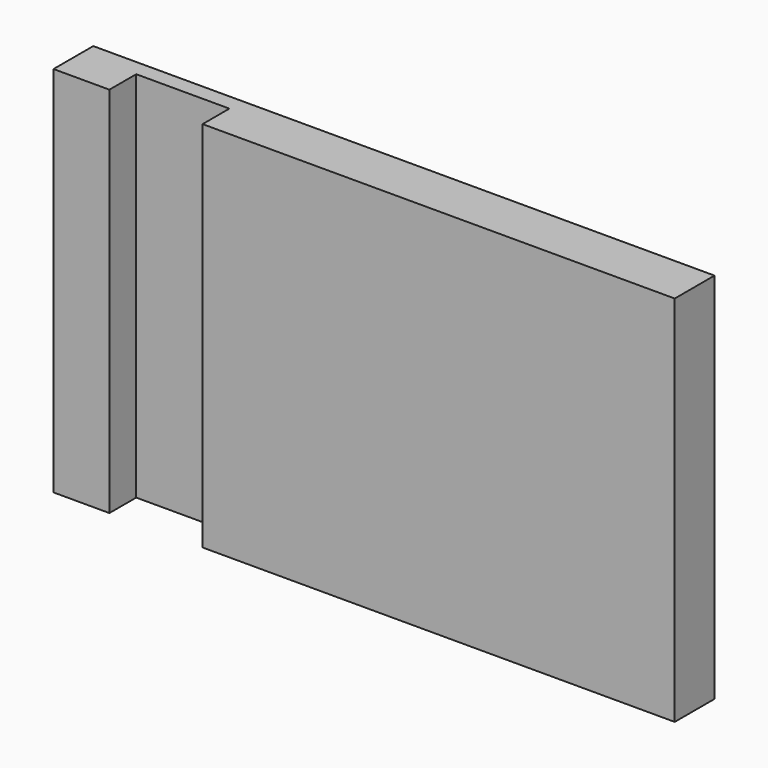
from build123d import *

# Parameters (mm, degrees)
F0_W     = 127
F0_H     = 76.2
F1_DEPTH = 10.16
F2_W     = 19.05
F2_H     = 6.0776587872
F3_DEPTH = 25.4
F4_DEPTH = 25.4
F5_DEPTH = 50.8
F6_W     = 19.05
F6_H     = 6.8539392034
F7_DEPTH = 127


with BuildPart() as f1:
    # F0 (on Front) → F1 (new body)
    with BuildSketch(Plane.XZ):
        with Locations((-63.5, 38.1)):
            Rectangle(F0_W, F0_H)
    extrude(amount=F1_DEPTH)

    # F2 (on face) → F3 (cut)
    with BuildSketch(Plane.XY.offset(76.2)):
        with Locations((-103.3981527448, -7.1211706064)):
            Rectangle(F2_W, F2_H)
    extrude(amount=-F3_DEPTH, mode=Mode.SUBTRACT)

    # F4 (cut): a face of the model
    f4_faces = [f1.faces().sort_by_distance(p)[0] for p in [
        (-103.3981527448, -7.1211706064, 50.8),
    ]]
    extrude(f4_faces, amount=-F4_DEPTH, mode=Mode.SUBTRACT)

    # F5 (add): a face of the model
    f5_faces = [f1.faces().sort_by_distance(p)[0] for p in [
        (-103.3981527448, -7.1211706064, 25.4),
    ]]
    extrude(f5_faces, amount=F5_DEPTH)

    # F6 (on face) → F7 (cut)
    with BuildSketch(Plane.XY.offset(76.2)):
        with Locations((-106.0485850334, -6.7330303983)):
            Rectangle(F6_W, F6_H)
    extrude(amount=-F7_DEPTH, mode=Mode.SUBTRACT)


solid = f1.part
